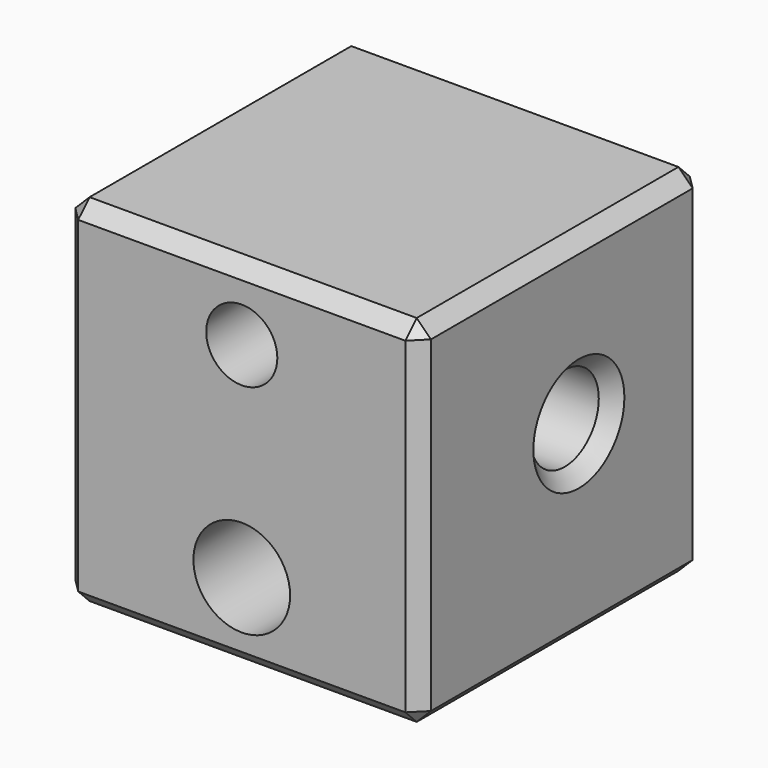
from build123d import *

# Parameters (mm, degrees)
SKETCH014_W          = 25
SKETCH014_H          = 25
SKETCH014_R          = 3
PAD007_DEPTH         = 12.5
SKETCH015_R          = 3.4
POCKET007_DEPTH      = 12.501
POCKET007_DEPTH_BACK = 12.501
CHAMFER001_SIZE      = 1
SKETCH020_R          = 2.5
POCKET009_DEPTH      = 12.501
POCKET009_DEPTH_BACK = 12.501


with BuildPart() as part:
    # Sketch014 → Pad007 (new body, symmetric)
    with BuildSketch(Plane.YZ):
        Rectangle(SKETCH014_W, SKETCH014_H)
        with Locations((1.5, 1)):
            Circle(SKETCH014_R, mode=Mode.SUBTRACT)
    extrude(amount=PAD007_DEPTH, both=True)

    # Sketch015 → Pocket007 (cut, two sides)
    with BuildSketch(Plane.XZ) as pocket007_sk:
        with Locations((0, -6.9)):
            Circle(SKETCH015_R)
    extrude(amount=-POCKET007_DEPTH, mode=Mode.SUBTRACT)
    extrude(pocket007_sk.sketch, amount=POCKET007_DEPTH_BACK, mode=Mode.SUBTRACT)

    # Chamfer001
    chamfer001_edges = [part.edges().sort_by_distance(p)[0] for p in [
        (-12.5, 0, 12.5),
        (-12.5, 12.5, 0),
        (-12.5, 0, -12.5),
        (-12.5, -12.5, 0),
        (-12.5, -1.5, 1),
        (12.5, 0, 12.5),
        (12.5, 12.5, 0),
        (12.5, 0, -12.5),
        (12.5, -12.5, 0),
        (12.5, -1.5, 1),
        (0, -12.5, 12.5),
        (0, 12.5, 12.5),
        (0, 12.5, -12.5),
        (0, -12.5, -12.5),
    ]]
    chamfer(chamfer001_edges, length=CHAMFER001_SIZE)

    # Sketch020 → Pocket009 (cut, two sides)
    with BuildSketch(Plane.XZ) as pocket009_sk:
        with Locations((0, 7.5)):
            Circle(SKETCH020_R)
    extrude(amount=-POCKET009_DEPTH, mode=Mode.SUBTRACT)
    extrude(pocket009_sk.sketch, amount=POCKET009_DEPTH_BACK, mode=Mode.SUBTRACT)


with BuildPart() as part_1:
    # Body005 placement: moved
    add(part.part.moved(Location((0, -36.5, -10.5))))


solid = part_1.part
